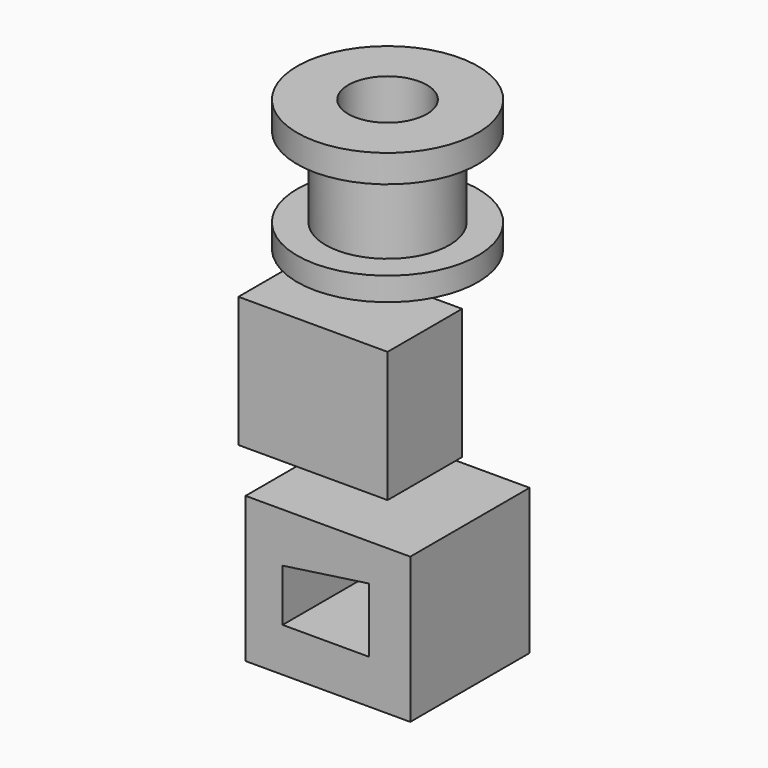
from build123d import *

# Parameters (mm, degrees)
F0_W     = 40
F0_H     = 35
F1_DEPTH = 25
F4_W     = 44.1695
F4_H     = 39.016396
F5_DEPTH = 20


with BuildPart() as f1:
    # F0 (on Front) → F1 (new body)
    with BuildSketch(Plane.XZ):
        Rectangle(F0_W, F0_H)
    extrude(amount=F1_DEPTH)


with BuildPart() as f3:
    # F2 (on Right) → F3 (revolve)
    with BuildSketch(Plane.YZ):
        Polygon((-10.547892, 60.416196), (-24.228537, 60.416196), (-24.228537, 52.996188), (-16.576651, 52.996188), (-16.576651, 31.431779), (-24.228537, 31.431779), (-24.228537, 25.171148), (-10.547892, 25.171148), align=None)
    revolve(axis=Axis((0, 0, 32.526851), (0, 0, 1)))


with BuildPart() as f5:
    # F4 (on Front) → F5 (new body, symmetric)
    with BuildSketch(Plane.XZ):
        with Locations((0, -51.715124)):
            Rectangle(F4_W, F4_H)
        Polygon((-12.14661, -59.444785), (-12.14661, -45.457777), (11.042379, -42.145062), (11.042379, -59.444785), align=None, mode=Mode.SUBTRACT)
    extrude(amount=F5_DEPTH, both=True)


solid = Compound([f1.part, f3.part, f5.part])
